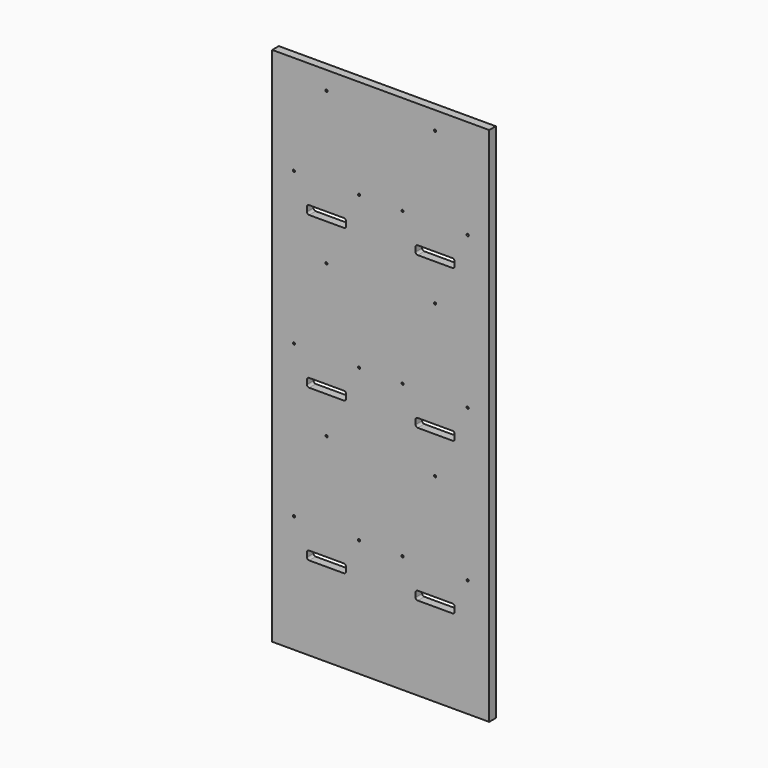
from build123d import *

# Parameters (mm, degrees)
F1_W     = 499.5
F1_H     = 1199.5
F1_R     = 2.5
F2_DEPTH = 19


with BuildPart() as f2:
    # F1 (on Front) → F2 (new body)
    with BuildSketch(Plane.XZ):
        with Locations((249.75, 990.25)):
            Rectangle(F1_W, F1_H)
        with Locations((50, 661.2)):
            Circle(F1_R, mode=Mode.SUBTRACT)
        with BuildLine():
            Line((85, 603), (165, 603))
            ThreePointArc((165, 603), (168.5355339059, 601.5355339059), (170, 598))
            Line((170, 598), (170, 588))
            ThreePointArc((170, 588), (168.5355339059, 584.4644660941), (165, 583))
            Line((165, 583), (85, 583))
            ThreePointArc((85, 583), (81.4644660941, 584.4644660941), (80, 588))
            Line((80, 588), (80, 598))
            ThreePointArc((80, 598), (81.4644660941, 601.5355339059), (85, 603))
        make_face(mode=Mode.SUBTRACT)
        with Locations((200, 661.2)):
            Circle(F1_R, mode=Mode.SUBTRACT)
        with Locations((300, 661.2)):
            Circle(F1_R, mode=Mode.SUBTRACT)
        with BuildLine():
            Line((335, 603), (415, 603))
            ThreePointArc((415, 603), (418.5355339059, 601.5355339059), (420, 598))
            Line((420, 598), (420, 588))
            ThreePointArc((420, 588), (418.5355339059, 584.4644660941), (415, 583))
            Line((415, 583), (335, 583))
            ThreePointArc((335, 583), (331.4644660941, 584.4644660941), (330, 588))
            Line((330, 588), (330, 598))
            ThreePointArc((330, 598), (331.4644660941, 601.5355339059), (335, 603))
        make_face(mode=Mode.SUBTRACT)
        with Locations((450, 661.2)):
            Circle(F1_R, mode=Mode.SUBTRACT)
        with Locations((125, 848)):
            Circle(F1_R, mode=Mode.SUBTRACT)
        with BuildLine():
            Line((85, 953), (165, 953))
            ThreePointArc((165, 953), (168.5355339059, 951.5355339059), (170, 948))
            Line((170, 948), (170, 938))
            ThreePointArc((170, 938), (168.5355339059, 934.4644660941), (165, 933))
            Line((165, 933), (85, 933))
            ThreePointArc((85, 933), (81.4644660941, 934.4644660941), (80, 938))
            Line((80, 938), (80, 948))
            ThreePointArc((80, 948), (81.4644660941, 951.5355339059), (85, 953))
        make_face(mode=Mode.SUBTRACT)
        with Locations((375, 848)):
            Circle(F1_R, mode=Mode.SUBTRACT)
        with BuildLine():
            Line((335, 953), (415, 953))
            ThreePointArc((415, 953), (418.5355339059, 951.5355339059), (420, 948))
            Line((420, 948), (420, 938))
            ThreePointArc((420, 938), (418.5355339059, 934.4644660941), (415, 933))
            Line((415, 933), (335, 933))
            ThreePointArc((335, 933), (331.4644660941, 934.4644660941), (330, 938))
            Line((330, 938), (330, 948))
            ThreePointArc((330, 948), (331.4644660941, 951.5355339059), (335, 953))
        make_face(mode=Mode.SUBTRACT)
        with Locations((50, 1011.2)):
            Circle(F1_R, mode=Mode.SUBTRACT)
        with Locations((200, 1011.2)):
            Circle(F1_R, mode=Mode.SUBTRACT)
        with Locations((125, 1198)):
            Circle(F1_R, mode=Mode.SUBTRACT)
        with Locations((300, 1011.2)):
            Circle(F1_R, mode=Mode.SUBTRACT)
        with Locations((450, 1011.2)):
            Circle(F1_R, mode=Mode.SUBTRACT)
        with Locations((375, 1198)):
            Circle(F1_R, mode=Mode.SUBTRACT)
        with Locations((50, 1361.2)):
            Circle(F1_R, mode=Mode.SUBTRACT)
        with BuildLine():
            ThreePointArc((170, 1288), (168.5355339059, 1284.4644660941), (165, 1283))
            Line((165, 1283), (85, 1283))
            ThreePointArc((85, 1283), (81.4644660941, 1284.4644660941), (80, 1288))
            Line((80, 1288), (80, 1298))
            ThreePointArc((80, 1298), (81.4644660941, 1301.5355339059), (85, 1303))
            Line((85, 1303), (165, 1303))
            ThreePointArc((165, 1303), (168.5355339059, 1301.5355339059), (170, 1298))
            Line((170, 1298), (170, 1288))
        make_face(mode=Mode.SUBTRACT)
        with Locations((200, 1361.2)):
            Circle(F1_R, mode=Mode.SUBTRACT)
        with Locations((125, 1548)):
            Circle(F1_R, mode=Mode.SUBTRACT)
        with Locations((300, 1361.2)):
            Circle(F1_R, mode=Mode.SUBTRACT)
        with BuildLine():
            Line((335, 1303), (415, 1303))
            ThreePointArc((415, 1303), (418.5355339059, 1301.5355339059), (420, 1298))
            Line((420, 1298), (420, 1288))
            ThreePointArc((420, 1288), (418.5355339059, 1284.4644660941), (415, 1283))
            Line((415, 1283), (335, 1283))
            ThreePointArc((335, 1283), (331.4644660941, 1284.4644660941), (330, 1288))
            Line((330, 1288), (330, 1298))
            ThreePointArc((330, 1298), (331.4644660941, 1301.5355339059), (335, 1303))
        make_face(mode=Mode.SUBTRACT)
        with Locations((450, 1361.2)):
            Circle(F1_R, mode=Mode.SUBTRACT)
        with Locations((375, 1548)):
            Circle(F1_R, mode=Mode.SUBTRACT)
    extrude(amount=F2_DEPTH)


with BuildPart() as f2_1:
    # F3: moved
    add(f2.part.moved(Location((0, 0, -390.5))))


solid = f2_1.part
